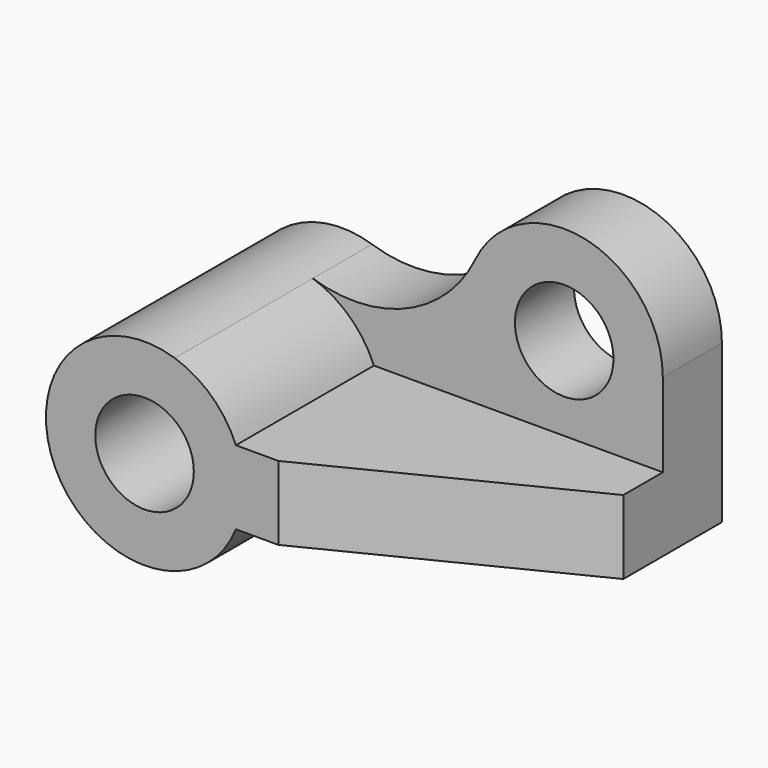
from build123d import *

# Parameters (mm, degrees)
F0_R     = 10
F1_DEPTH = 50
F0_W     = 50
F0_H     = 15
F2_DEPTH = 15
F3_W     = 50
F3_H     = 15
F4_DEPTH = 35
F6_DEPTH = 27.501
F8_DEPTH = 257.5


with BuildPart() as f1:
    # F0 (on Front) → F1 (new body)
    with BuildSketch(Plane.XZ):
        with BuildLine():
            ThreePointArc((18.540496, 7.5), (13.624005, 14.641943), (6.146908, 19.03196))
            ThreePointArc((6.146908, 19.03196), (-18.120519, -8.464442), (18.540496, -7.5))
            ThreePointArc((18.540496, -7.5), (19.631734, -3.820345), (20, 0))
            ThreePointArc((20, 0), (19.631734, 3.820345), (18.540496, 7.5))
        make_face()
        Circle(F0_R, mode=Mode.SUBTRACT)
        with BuildLine():
            Line((27.149505, -7.5), (27.149505, 7.5))
            Line((27.149505, 7.5), (18.540496, 7.5))
            ThreePointArc((18.540496, 7.5), (19.631734, 3.820345), (20, 0))
            ThreePointArc((20, 0), (19.631734, -3.820345), (18.540496, -7.5))
            Line((18.540496, -7.5), (27.149505, -7.5))
        make_face()
    extrude(amount=F1_DEPTH)

    # F0 (on Front) → F2 (join)
    with BuildSketch(Plane.XZ):
        with BuildLine():
            Line((77.149505, 7.5), (77.149505, 24.5))
            ThreePointArc((77.149505, 24.5), (61.595967, 43.999461), (39.126608, 33.170362))
            ThreePointArc((39.126608, 33.170362), (25.287149, 19.918772), (6.146908, 19.03196))
            ThreePointArc((6.146908, 19.03196), (13.624005, 14.641943), (18.540496, 7.5))
            Line((18.540496, 7.5), (27.149505, 7.5))
            Line((27.149505, 7.5), (77.149505, 7.5))
        make_face()
        with Locations((57.149505, 24.5)):
            Circle(F0_R, mode=Mode.SUBTRACT)
        with Locations((52.149505, 0)):
            Rectangle(F0_W, F0_H)
    extrude(amount=F2_DEPTH)

    # F3 (on face) → F4 (join)
    with BuildSketch(Plane.XZ.offset(15)):
        with Locations((52.149505, 0)):
            Rectangle(F3_W, F3_H)
    extrude(amount=F4_DEPTH)

    # F5 (on face) → F6 (join, through all)
    with BuildSketch(Plane.XY.offset(7.5)):
        Polygon((77.149505, -25), (27.149505, -50), (77.149505, -50), align=None)
        Polygon((77.149505, -25), (27.149505, -50), (77.149505, -50), align=None)
    extrude(amount=-F6_DEPTH)

    # F7 (on face) → F8 (cut)
    with BuildSketch(Plane.XY.offset(7.5)):
        Polygon((77.149505, -25), (27.149505, -50), (77.149505, -50), align=None)
    extrude(amount=-F8_DEPTH, mode=Mode.SUBTRACT)


solid = f1.part
